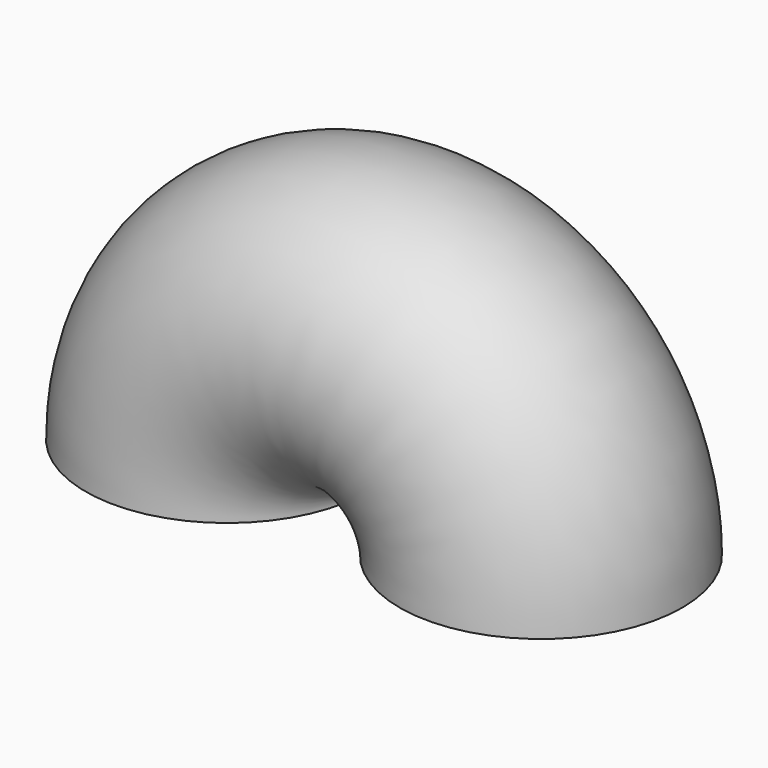
from build123d import *

# Parameters (mm, degrees)
F2_R = 57.15


with BuildPart() as f3:
    # F3: sweep along a path in F0
    with BuildLine(Plane.XZ) as f3_path:
        ThreePointArc((87.0075562868, 0), (23.5075562868, 63.5), (-39.9924437132, 0))
    # F2 (on line) → F3 (sweep)
    with BuildSketch(Plane.XY):
        with Locations((86.9664475322, -0.0134997308)):
            Circle(F2_R)
    sweep(path=f3_path.line)


solid = f3.part
